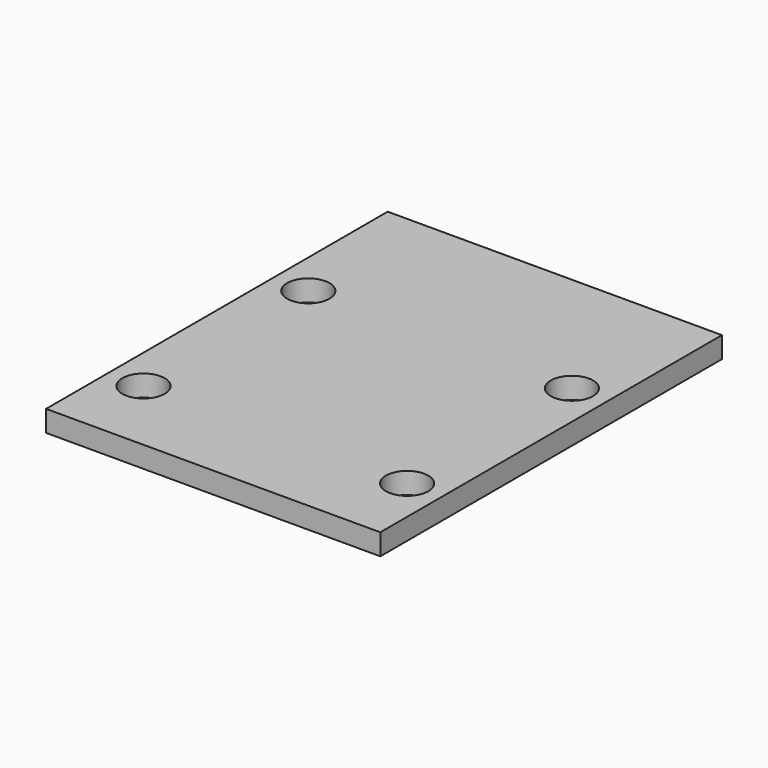
from build123d import *

# Parameters (mm, degrees)
F0_R     = 1.5
F1_DEPTH = 1.5


with BuildPart() as f1:
    # F0 (on Top) → F1 (new body)
    with BuildSketch(Plane.XY):
        Polygon((0, 39.600004), (-23.670001, 39.600004), (-23.670001, 14.86), (-23.670001, 13.36), (-23.670001, 9.36), (0, 9.36), align=None)
        with Locations((-21.170001, 14.86)):
            Circle(F0_R, mode=Mode.SUBTRACT)
        with Locations((-2.5, 14.86)):
            Circle(F0_R, mode=Mode.SUBTRACT)
        with Locations((-21.170001, 29.448288)):
            Circle(F0_R, mode=Mode.SUBTRACT)
        with Locations((-2.5, 29.448288)):
            Circle(F0_R, mode=Mode.SUBTRACT)
        Polygon((0, 39.600004), (-23.670001, 39.600004), (-23.670001, 14.86), (-23.670001, 13.36), (-23.670001, 9.36), (0, 9.36), align=None)
        with Locations((-21.170001, 14.86)):
            Circle(F0_R, mode=Mode.SUBTRACT)
        with Locations((-2.5, 14.86)):
            Circle(F0_R, mode=Mode.SUBTRACT)
        with Locations((-21.170001, 29.448288)):
            Circle(F0_R, mode=Mode.SUBTRACT)
        with Locations((-2.5, 29.448288)):
            Circle(F0_R, mode=Mode.SUBTRACT)
    extrude(amount=F1_DEPTH)


solid = f1.part
